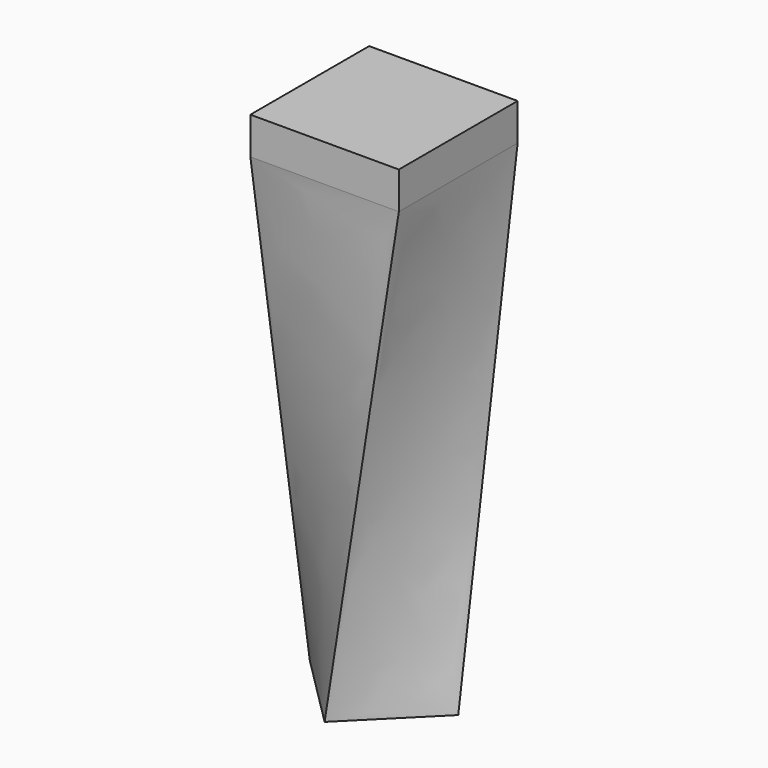
from build123d import *

# Parameters (mm, degrees)
F0_W      = 101.6
F0_H      = 25.4
F1_DEPTH  = 101.6
F1_FACE_W = 101.6
F1_FACE_H = 101.6


with BuildPart() as f1:
    # F0 (on Front) → F1 (new body)
    with BuildSketch(Plane.XZ):
        with Locations((50.8, 12.7)):
            Rectangle(F0_W, F0_H)
    extrude(amount=F1_DEPTH)

    # F1_face (on face) → F4 section 0
    with BuildSketch(Plane(origin=(50.8, -50.8, 0), x_dir=(1, 0, 0), z_dir=(0, 0, -1))):
        Rectangle(F1_FACE_W, F1_FACE_H)
    # F3 (on offset) → F4 section 1
    with BuildSketch(Plane(origin=(0, 0, -323.85), x_dir=(1, 0, 0), z_dir=(0, 0, -1))):
        Polygon((0, 50.8), (50.8, 0), (101.6, 50.8), (50.8, 101.6), align=None)
    loft()


solid = f1.part
